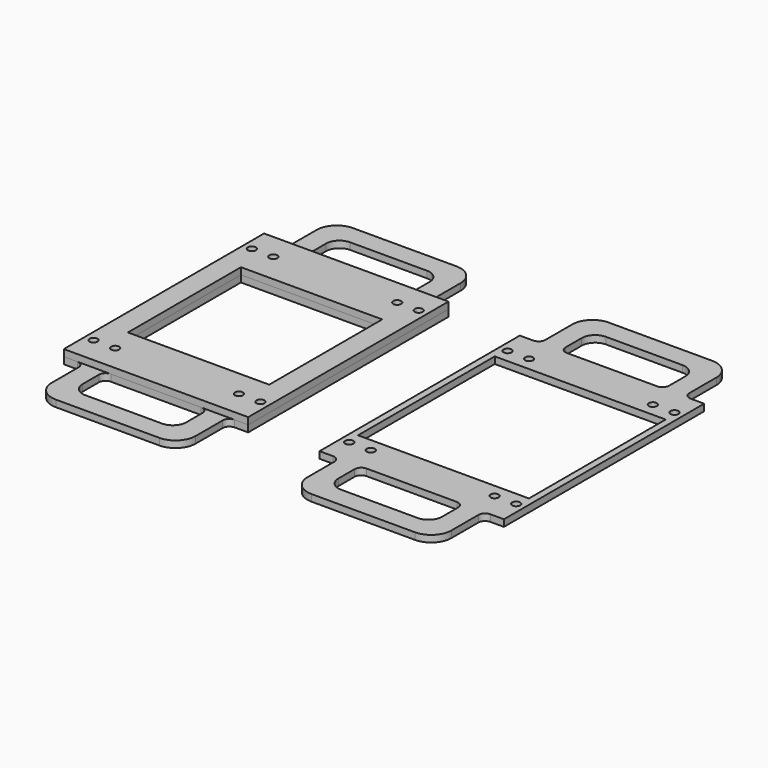
from build123d import *

# Parameters (mm, degrees)
F0_R     = 3
F0_W     = 105
F0_H     = 105
F1_DEPTH = 5
F2_R     = 3
F3_DEPTH = 5
F4_W     = 127
F4_H     = 127
F5_DEPTH = 5
F6_R     = 3
F6_W     = 105
F6_H     = 105
F7_DEPTH = 5


with BuildPart() as f1:
    # F0 (on Top) → F1 (new body)
    with BuildSketch(Plane.XY):
        Polygon((0, 186), (0, 0), (10, 0), (35, 0), (102, 0), (127, 0), (137, 0), (137, 186), (127, 186), (102, 186), (35, 186), (10, 186), align=None)
        with Locations((6.5, 19.5)):
            Circle(F0_R, mode=Mode.SUBTRACT)
        with Locations((22.5, 19.5)):
            Circle(F0_R, mode=Mode.SUBTRACT)
        with Locations((114.5, 19.5)):
            Circle(F0_R, mode=Mode.SUBTRACT)
        with Locations((130.5, 19.5)):
            Circle(F0_R, mode=Mode.SUBTRACT)
        with Locations((68.5, 92)):
            Rectangle(F0_W, F0_H, mode=Mode.SUBTRACT)
        with Locations((6.5, 166.5)):
            Circle(F0_R, mode=Mode.SUBTRACT)
        with Locations((22.5, 166.5)):
            Circle(F0_R, mode=Mode.SUBTRACT)
        with Locations((114.5, 166.5)):
            Circle(F0_R, mode=Mode.SUBTRACT)
        with Locations((130.5, 166.5)):
            Circle(F0_R, mode=Mode.SUBTRACT)
        with BuildLine():
            ThreePointArc((15, 191), (13.535534, 187.464466), (10, 186))
            Line((10, 186), (35, 186))
            ThreePointArc((35, 186), (31.464466, 187.464466), (30, 191))
            Line((30, 191), (30, 206))
            ThreePointArc((30, 206), (32.928932, 213.071068), (40, 216))
            Line((40, 216), (97, 216))
            ThreePointArc((97, 216), (104.071068, 213.071068), (107, 206))
            Line((107, 206), (107, 191))
            ThreePointArc((107, 191), (105.535534, 187.464466), (102, 186))
            Line((102, 186), (127, 186))
            ThreePointArc((127, 186), (123.464466, 187.464466), (122, 191))
            Line((122, 191), (122, 216))
            ThreePointArc((122, 216), (117.606602, 226.606602), (107, 231))
            Line((107, 231), (30, 231))
            ThreePointArc((30, 231), (19.393398, 226.606602), (15, 216))
            Line((15, 216), (15, 191))
        make_face()
        with BuildLine():
            Line((35, 0), (10, 0))
            ThreePointArc((10, 0), (13.535534, -1.464466), (15, -5))
            Line((15, -5), (15, -30))
            ThreePointArc((15, -30), (19.393398, -40.606602), (30, -45))
            Line((30, -45), (107, -45))
            ThreePointArc((107, -45), (117.606602, -40.606602), (122, -30))
            Line((122, -30), (122, -5))
            ThreePointArc((122, -5), (123.464466, -1.464466), (127, 0))
            Line((127, 0), (102, 0))
            ThreePointArc((102, 0), (105.535534, -1.464466), (107, -5))
            Line((107, -5), (107, -20))
            ThreePointArc((107, -20), (104.071068, -27.071068), (97, -30))
            Line((97, -30), (40, -30))
            ThreePointArc((40, -30), (32.928932, -27.071068), (30, -20))
            Line((30, -20), (30, -5))
            ThreePointArc((30, -5), (31.464466, -1.464466), (35, 0))
        make_face()
    extrude(amount=F1_DEPTH)


with BuildPart() as f3:
    # F2 (on Top) → F3 (new body)
    with BuildSketch(Plane.XY):
        Polygon((190, 186), (190, 0), (200, 0), (225, 0), (292, 0), (317, 0), (327, 0), (327, 186), (317, 186), (292, 186), (225, 186), (200, 186), align=None)
        with Locations((196.5, 19.5)):
            Circle(F2_R, mode=Mode.SUBTRACT)
        with Locations((212.5, 19.5)):
            Circle(F2_R, mode=Mode.SUBTRACT)
        with Locations((304.5, 19.5)):
            Circle(F2_R, mode=Mode.SUBTRACT)
        with Locations((320.5, 19.5)):
            Circle(F2_R, mode=Mode.SUBTRACT)
        with Locations((196.5, 166.5)):
            Circle(F2_R, mode=Mode.SUBTRACT)
        with Locations((212.5, 166.5)):
            Circle(F2_R, mode=Mode.SUBTRACT)
        with Locations((304.5, 166.5)):
            Circle(F2_R, mode=Mode.SUBTRACT)
        with Locations((320.5, 166.5)):
            Circle(F2_R, mode=Mode.SUBTRACT)
        with BuildLine():
            ThreePointArc((205, 191), (203.535534, 187.464466), (200, 186))
            Line((200, 186), (225, 186))
            ThreePointArc((225, 186), (221.464466, 187.464466), (220, 191))
            Line((220, 191), (220, 206))
            ThreePointArc((220, 206), (222.928932, 213.071068), (230, 216))
            Line((230, 216), (287, 216))
            ThreePointArc((287, 216), (294.071068, 213.071068), (297, 206))
            Line((297, 206), (297, 191))
            ThreePointArc((297, 191), (295.535534, 187.464466), (292, 186))
            Line((292, 186), (317, 186))
            ThreePointArc((317, 186), (313.464466, 187.464466), (312, 191))
            Line((312, 191), (312, 216))
            ThreePointArc((312, 216), (307.606602, 226.606602), (297, 231))
            Line((297, 231), (220, 231))
            ThreePointArc((220, 231), (209.393398, 226.606602), (205, 216))
            Line((205, 216), (205, 191))
        make_face()
        with BuildLine():
            Line((225, 0), (200, 0))
            ThreePointArc((200, 0), (203.535534, -1.464466), (205, -5))
            Line((205, -5), (205, -30))
            ThreePointArc((205, -30), (209.393398, -40.606602), (220, -45))
            Line((220, -45), (297, -45))
            ThreePointArc((297, -45), (307.606602, -40.606602), (312, -30))
            Line((312, -30), (312, -5))
            ThreePointArc((312, -5), (313.464466, -1.464466), (317, 0))
            Line((317, 0), (292, 0))
            ThreePointArc((292, 0), (295.535534, -1.464466), (297, -5))
            Line((297, -5), (297, -20))
            ThreePointArc((297, -20), (294.071068, -27.071068), (287, -30))
            Line((287, -30), (230, -30))
            ThreePointArc((230, -30), (222.928932, -27.071068), (220, -20))
            Line((220, -20), (220, -5))
            ThreePointArc((220, -5), (221.464466, -1.464466), (225, 0))
        make_face()
    extrude(amount=F3_DEPTH)

    # F4 (on face) → F5 (cut)
    with BuildSketch(Plane.XY.offset(5)):
        with Locations((258.5, 93)):
            Rectangle(F4_W, F4_H)
    extrude(amount=-F5_DEPTH, mode=Mode.SUBTRACT)


with BuildPart() as f7:
    # F6 (on face) → F7 (new body)
    with BuildSketch(Plane.XY.offset(5)):
        Polygon((10, 186), (0, 186), (0, 0), (10, 0), (35, 0), (102, 0), (127, 0), (137, 0), (137, 186), (127, 186), (102, 186), (35, 186), align=None)
        with Locations((6.5, 19.5)):
            Circle(F6_R, mode=Mode.SUBTRACT)
        with Locations((22.5, 19.5)):
            Circle(F6_R, mode=Mode.SUBTRACT)
        with Locations((114.5, 19.5)):
            Circle(F6_R, mode=Mode.SUBTRACT)
        with Locations((130.5, 19.5)):
            Circle(F6_R, mode=Mode.SUBTRACT)
        with Locations((68.5, 92)):
            Rectangle(F6_W, F6_H, mode=Mode.SUBTRACT)
        with Locations((6.5, 166.5)):
            Circle(F6_R, mode=Mode.SUBTRACT)
        with Locations((22.5, 166.5)):
            Circle(F6_R, mode=Mode.SUBTRACT)
        with Locations((114.5, 166.5)):
            Circle(F6_R, mode=Mode.SUBTRACT)
        with Locations((130.5, 166.5)):
            Circle(F6_R, mode=Mode.SUBTRACT)
    extrude(amount=F7_DEPTH)


solid = Compound([f1.part, f3.part, f7.part])
